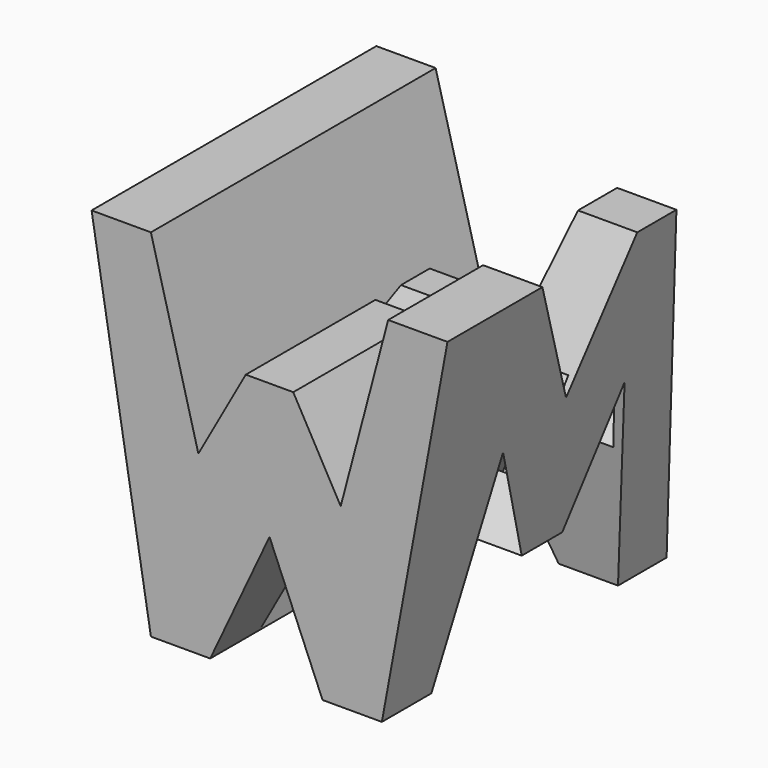
from build123d import *

# Parameters (mm, degrees)
F0_W      = 38.1
F0_H      = 38.1
F1_DEPTH  = 38.1
F4_DEPTH  = 38.1
F7_DEPTH  = 25.4
F8_DEPTH  = 25.4
F11_DEPTH = 25.4
F12_W     = 24.5706126973
F12_H     = 7.62
F13_DEPTH = 25.4
F14_DEPTH = 25.4


with BuildPart() as f1:
    # F0 (on Front) → F1 (new body)
    with BuildSketch(Plane.XZ):
        with Locations((19.05, 19.05)):
            Rectangle(F0_W, F0_H)
    extrude(amount=F1_DEPTH)

    # F0 (on Front) → F4 (join)
    with BuildSketch(Plane.XZ):
        with Locations((19.05, 19.05)):
            Rectangle(F0_W, F0_H)
    extrude(amount=F4_DEPTH)

    # F6 (on face) → F7 (cut)
    with BuildSketch(Plane.XZ.offset(38.1)):
        Polygon((31.75, 38.1), (6.35, 38.1), (11.43, 18.8944898546), (16.51, 27.9918368906), (21.59, 27.9918368906), (26.67, 18.8944898546), align=None)
        Polygon((6.35, 0), (0, 38.1), (0, 0), align=None)
        Polygon((19.05, 13.529388234), (12.7, 0), (24.7261244804, 0), align=None)
        Polygon((38.1, 0), (38.1, 38.1), (31.0761244804, 0), align=None)
    extrude(amount=-F7_DEPTH, mode=Mode.SUBTRACT)

    # F8 (cut): faces of the model
    f8_faces = [f1.faces().sort_by_distance(p)[0] for p in [
        (2.1166666667, -12.7, 12.7),
        (19.05, -12.7, 31.3496059527),
        (18.8253748268, -12.7, 4.509796078),
        (35.7587081601, -12.7, 12.7),
    ]]
    extrude(f8_faces, amount=-F8_DEPTH, mode=Mode.SUBTRACT)

    # F10 (on offset) + F9 (on offset) → F11 (cut)
    with BuildSketch(Plane.YZ.offset(38.1)):
        Polygon((-27.0018987358, 22.225), (-31.4789675176, 0), (-6.5016360022, 0), (-10.7430694625, 22.225), (-16.1626785994, 9.525), (-21.5822886676, 9.525), align=None)
    with BuildSketch(Plane.YZ.offset(38.1)):
        Polygon((-19.05, 24.2595933378), (-12.7, 38.1), (-25.4, 38.1), align=None)
        Polygon((-7.464489516, 38.1), (0, 0), (0, 38.1), align=None)
    extrude(amount=-F11_DEPTH, mode=Mode.SUBTRACT)

    # F12 (on Top) → F13 (cut)
    with BuildSketch(Plane.XY):
        with Locations((25.8146936513, -26.67)):
            Rectangle(F12_W, F12_H)
    extrude(amount=-F13_DEPTH, mode=Mode.SUBTRACT)

    # F14 (cut): a face of the model
    f14_faces = [f1.faces().sort_by_distance(p)[0] for p in [
        (23.4427598086, -24.3604736917, 16.0352377039),
    ]]
    extrude(f14_faces, amount=-F14_DEPTH, mode=Mode.SUBTRACT)


solid = f1.part
